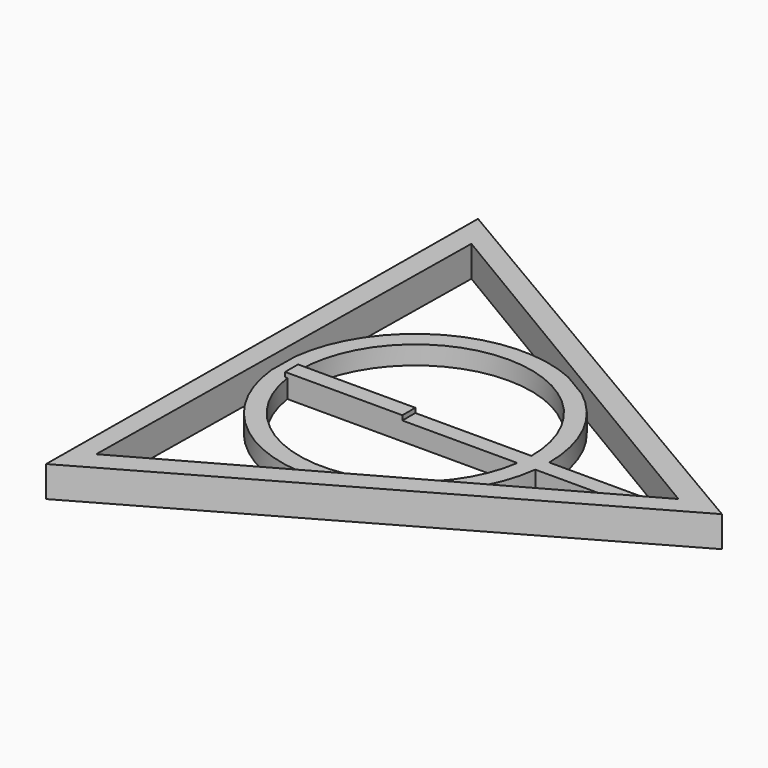
from build123d import *

# Parameters (mm, degrees)
F1_DEPTH = 5.08
F2_R     = 22.04107
F2_R_2   = 19.11099
F3_DEPTH = 3.048
F4_W     = 19.304385
F4_H     = 2.671048
F5_DEPTH = 3.81
F4_W_2   = 41.644052
F6_DEPTH = 3.048


with BuildPart() as f1:
    # F0 (on Top) → F1 (new body)
    with BuildSketch(Plane.XY):
        Polygon((50.798323, -0.41276), (-25.041701, 44.199018), (-25.756622, -43.786259), align=None)
        Polygon((43.80493, -0.616712), (-22.436553, -37.627826), (-21.368377, 38.244538), align=None, mode=Mode.SUBTRACT)
    extrude(amount=F1_DEPTH)

    # F2 (on Top) → F3 (join)
    with BuildSketch(Plane.XY):
        Circle(F2_R)
        Circle(F2_R_2, mode=Mode.SUBTRACT)
    extrude(amount=F3_DEPTH)

    # F4 (on Top) → F5 (join)
    with BuildSketch(Plane.XY):
        with Locations((-9.652192, -1.335524)):
            Rectangle(F4_W, F4_H)
    extrude(amount=F5_DEPTH)

    # F4 (on Top) → F6 (join)
    with BuildSketch(Plane.XY):
        with Locations((20.822026, -1.335524)):
            Rectangle(F4_W_2, F4_H)
        with Locations((-9.652192, -1.335524)):
            Rectangle(F4_W, F4_H)
    extrude(amount=F6_DEPTH)


solid = f1.part
